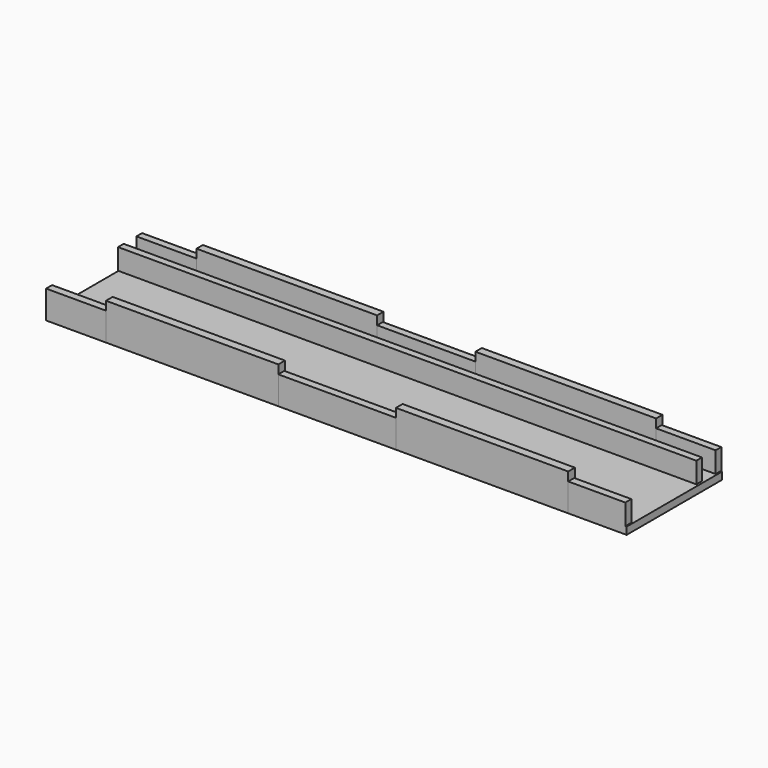
from build123d import *

# Parameters (mm, degrees)
F1_W      = 199.719626
F1_H      = 2.443053
F2_DEPTH  = 9.700006
F3_W      = 62.29786
F3_H      = 2.748434
F3_W_2    = 62.297862
F4_DEPTH  = 12.7
F5_W      = 199.414242
F5_H      = 2.443051
F6_DEPTH  = 9.6774
F0_W      = 200.025
F0_H      = 41.073836
F7_DEPTH  = 2.5
F10_W     = 199.719626
F10_H     = 2.595744
F11_DEPTH = 9.6774
F12_W     = 59.408624
F12_H     = 2.874611
F13_DEPTH = 12.7


with BuildPart() as f2:
    # F1 (on Top) → F2 (new body)
    with BuildSketch(Plane.XY):
        with Locations((38.474461, 40.157691)):
            Rectangle(F1_W, F1_H)
    extrude(amount=F2_DEPTH)

    # F3 (on Top) → F4 (join)
    with BuildSketch(Plane.XY):
        with Locations((-9.533371, 40.310381)):
            Rectangle(F3_W, F3_H)
        with Locations((86.661862, 40.310381)):
            Rectangle(F3_W_2, F3_H)
    extrude(amount=F4_DEPTH)


with BuildPart() as f6:
    # F5 (on Top) → F6 (new body)
    with BuildSketch(Plane.XY):
        with Locations((38.321769, 32.217768)):
            Rectangle(F5_W, F5_H)
    extrude(amount=F6_DEPTH)


with BuildPart() as f7:
    # F0 (on Top) → F7 (new body)
    with BuildSketch(Plane.XY):
        with Locations((38.783472, 20.536918)):
            Rectangle(F0_W, F0_H)
    extrude(amount=F7_DEPTH)

    # F10 (on Top) → F11 (join)
    with BuildSketch(Plane.XY):
        with Locations((38.474461, 1.297872)):
            Rectangle(F10_W, F10_H)
    extrude(amount=F11_DEPTH)

    # F12 (on Top) → F13 (join)
    with BuildSketch(Plane.XY):
        with Locations((-11.022674, 1.437305)):
            Rectangle(F12_W, F12_H)
        with Locations((88.949902, 1.437305)):
            Rectangle(F12_W, F12_H)
    extrude(amount=F13_DEPTH)


with BuildPart() as f8_1:
    # F8: instance of F2
    add(f2.part.mirror(Plane.XZ))


solid = Compound([f2.part, f6.part, f7.part])
